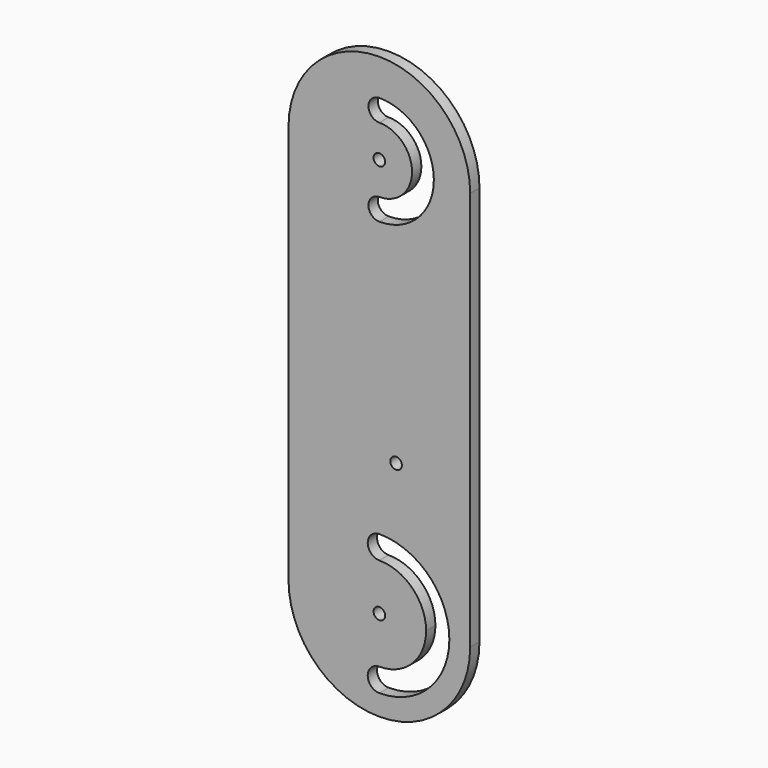
from build123d import *

# Parameters (mm, degrees)
F0_R     = 1.6
F1_DEPTH = 3.2


with BuildPart() as f1:
    # F0 (on Front) → F1 (new body)
    with BuildSketch(Plane.XZ):
        with BuildLine():
            ThreePointArc((25, 56.114472), (0, 81.114472), (-25, 56.114472))
            Line((-25, 56.114472), (-25, -53.833528))
            ThreePointArc((-25, -53.833528), (0, -78.833528), (25, -53.833528))
            Line((25, -53.833528), (25, 56.114472))
        make_face()
        with Locations((0, -53.833528)):
            Circle(F0_R, mode=Mode.SUBTRACT)
        with BuildLine():
            ThreePointArc((0, -73.103528), (-3.2, -69.903528), (0, -66.703528))
            ThreePointArc((0, -66.703528), (9.100464, -62.933992), (12.87, -53.833528))
            ThreePointArc((12.87, -53.833528), (9.100464, -44.733064), (0, -40.963528))
            ThreePointArc((0, -40.963528), (-3.2, -37.763528), (0, -34.563528))
            ThreePointArc((0, -34.563528), (13.625948, -40.20758), (19.27, -53.833528))
            ThreePointArc((19.27, -53.833528), (13.625948, -67.459476), (0, -73.103528))
        make_face(mode=Mode.SUBTRACT)
        with Locations((4.6, -15.920004)):
            Circle(F0_R, mode=Mode.SUBTRACT)
        with Locations((0, 56.114472)):
            Circle(F0_R, mode=Mode.SUBTRACT)
        with BuildLine():
            ThreePointArc((0, 41.114472), (-3, 44.114472), (0, 47.114472))
            ThreePointArc((0, 47.114472), (9, 56.114472), (0, 65.114472))
            ThreePointArc((0, 65.114472), (-3, 68.114472), (0, 71.114472))
            ThreePointArc((0, 71.114472), (15, 56.114472), (0, 41.114472))
        make_face(mode=Mode.SUBTRACT)
    extrude(amount=F1_DEPTH)


solid = f1.part
